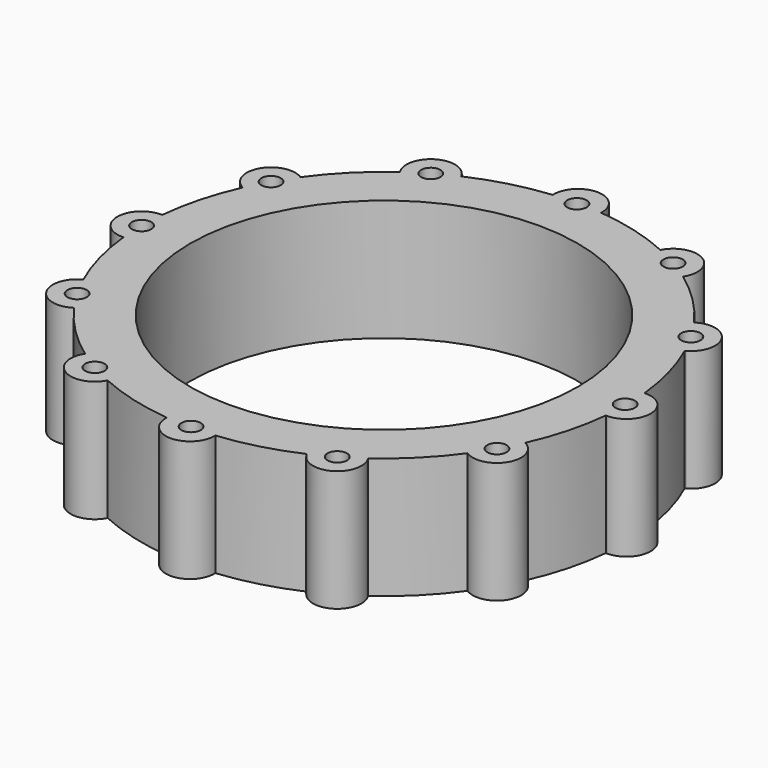
from build123d import *

# Parameters (mm, degrees)
F1_DEPTH = 25
F2_COUNT = 12
F5_D     = 4
F6_R     = 40
F7_DEPTH = 25.001


with BuildPart() as f1:
    # F0 (on Top) → F1 (new body)
    with BuildSketch(Plane.XY):
        with BuildLine():
            ThreePointArc((-4.9937460889, 49.75), (-33.5433502766, -37.0788841825), (50, 0))
            ThreePointArc((50, 0), (37.0788841825, 33.5433502766), (4.9937460889, 49.75))
            ThreePointArc((4.9937460889, 49.75), (0, 45), (-4.9937460889, 49.75))
        make_face()
        with BuildLine():
            ThreePointArc((-4.9937460889, 49.75), (0, 45), (4.9937460889, 49.75))
            ThreePointArc((4.9937460889, 49.75), (0, 50), (-4.9937460889, 49.75))
        make_face()
        with BuildLine():
            ThreePointArc((-4.9937460889, 49.75), (0, 50), (4.9937460889, 49.75))
            ThreePointArc((4.9937460889, 49.75), (4.9984362777, 49.8749608947), (5, 50))
            ThreePointArc((5, 50), (-0.1250391053, 54.9984362777), (-4.9937460889, 49.75))
        make_face()
    extrude(amount=F1_DEPTH)


with BuildPart() as f2_1:
    # F2: instance of F1
    add(f1.part.rotate(Axis((0, 0, 0), (0, 0, -1)), 1 * 360 / F2_COUNT))


with BuildPart() as f2_2:
    # F2: instance of F1
    add(f1.part.rotate(Axis((0, 0, 0), (0, 0, -1)), 2 * 360 / F2_COUNT))


with BuildPart() as f2_3:
    # F2: instance of F1
    add(f1.part.rotate(Axis((0, 0, 0), (0, 0, -1)), 3 * 360 / F2_COUNT))


with BuildPart() as f2_4:
    # F2: instance of F1
    add(f1.part.rotate(Axis((0, 0, 0), (0, 0, -1)), 4 * 360 / F2_COUNT))


with BuildPart() as f2_5:
    # F2: instance of F1
    add(f1.part.rotate(Axis((0, 0, 0), (0, 0, -1)), 5 * 360 / F2_COUNT))


with BuildPart() as f2_6:
    # F2: instance of F1
    add(f1.part.rotate(Axis((0, 0, 0), (0, 0, -1)), 6 * 360 / F2_COUNT))


with BuildPart() as f2_7:
    # F2: instance of F1
    add(f1.part.rotate(Axis((0, 0, 0), (0, 0, -1)), 7 * 360 / F2_COUNT))


with BuildPart() as f2_8:
    # F2: instance of F1
    add(f1.part.rotate(Axis((0, 0, 0), (0, 0, -1)), 8 * 360 / F2_COUNT))


with BuildPart() as f2_9:
    # F2: instance of F1
    add(f1.part.rotate(Axis((0, 0, 0), (0, 0, -1)), 9 * 360 / F2_COUNT))


with BuildPart() as f2_10:
    # F2: instance of F1
    add(f1.part.rotate(Axis((0, 0, 0), (0, 0, -1)), 10 * 360 / F2_COUNT))


with BuildPart() as f2_11:
    # F2: instance of F1
    add(f1.part.rotate(Axis((0, 0, 0), (0, 0, -1)), 11 * 360 / F2_COUNT))


with BuildPart() as f1_1:
    add(f1.part)

    # F3: union F2_5, F2_6, F2_1, F2_2, F2_3, F2_4, F2_11, F2_10, F2_7, F2_8, F2_9
    add(f2_5.part)
    add(f2_6.part)
    add(f2_1.part)
    add(f2_2.part)
    add(f2_3.part)
    add(f2_4.part)
    add(f2_11.part)
    add(f2_10.part)
    add(f2_7.part)
    add(f2_8.part)
    add(f2_9.part)

    # F5 (through all)
    with Locations(Plane(origin=(0, 0, 0), x_dir=(1, 0, 0), z_dir=(0, 0, -1))):
        with Locations((43.3012701892, -25), (25, -43.3012701892), (0, -49.75), (-25, -43.3012701892), (-43.3012701892, -25), (-50, 0), (-43.3012701892, 25), (-25, 43.3012701892), (0, 49.75), (25, 43.3012701892), (43.3012701892, 25), (49.75, 0)):
            Hole(F5_D / 2)

    # F6 (on face) → F7 (cut, through all)
    with BuildSketch(Plane(origin=(0, 0, 0), x_dir=(1, 0, 0), z_dir=(0, 0, -1))):
        Circle(F6_R)
    extrude(amount=-F7_DEPTH, mode=Mode.SUBTRACT)


solid = f1_1.part
